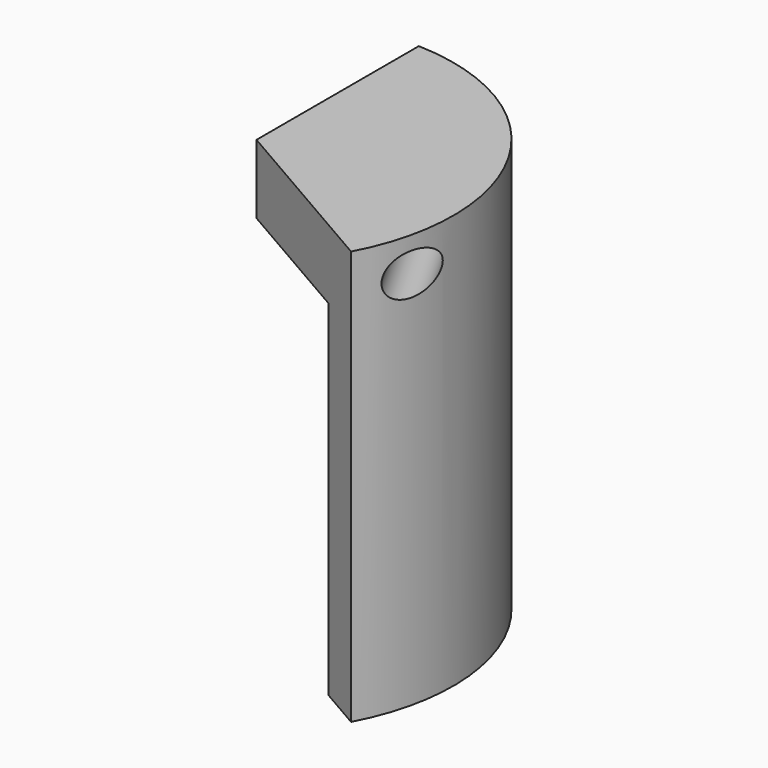
from build123d import *

# Parameters (mm, degrees)
F1_DEPTH  = 30
F3_DEPTH  = 25
F5_R      = 1.5
F6_DEPTH  = 13.5
F8_DEPTH  = 30
F11_DEPTH = 15


with BuildPart() as f1:
    # F0 (on Top) → F1 (new body)
    with BuildSketch(Plane.XY):
        with BuildLine():
            Line((0, 0), (12.9903810568, -7.5))
            ThreePointArc((12.9903810568, -7.5), (12.9903810568, 7.5), (0, 15))
            Line((0, 15), (0, 0))
        make_face()
    extrude(amount=-F1_DEPTH)

    # F2 (on face) → F3 (cut)
    with BuildSketch(Plane(origin=(0, 0, -30), x_dir=(1, 0, 0), z_dir=(0, 0, -1))):
        with BuildLine():
            Line((0, 0), (9.9592921435, 5.75))
            ThreePointArc((9.9592921435, 5.75), (-9.9592921435, 5.75), (0, -11.5))
            Line((0, -11.5), (0, 0))
        make_face()
        with BuildLine():
            ThreePointArc((0, -11.5), (8.1317279836, -8.1317279836), (11.5, 0))
            ThreePointArc((11.5, 0), (11.1081470023, 2.9764190187), (9.9592921435, 5.75))
            Line((9.9592921435, 5.75), (0, 0))
            Line((0, 0), (0, -11.5))
        make_face()
    extrude(amount=-F3_DEPTH, mode=Mode.SUBTRACT)

    # F5 (on face) → F6 (cut, symmetric)
    with BuildSketch(Plane(origin=(0, 0, 0), x_dir=(0.8660254038, 0.5, 0), z_dir=(0.5, -0.8660254038, 0))):
        with Locations((11, -2.5)):
            Circle(F5_R)
    extrude(amount=F6_DEPTH, both=True, mode=Mode.SUBTRACT)

    # F7 (on face) → F8 (cut)
    with BuildSketch(Plane.XY):
        with BuildLine():
            ThreePointArc((0, 15), (0.2500347391, 14.9979159429), (0.5, 14.9916643506))
            Line((0.5, 14.9916643506), (0.5, 16.4106432348))
            Line((0.5, 16.4106432348), (-0.9136777371, 16.4106432348))
            Line((-0.9136777371, 16.4106432348), (-0.9136777371, -10.8329579234))
            Line((-0.9136777371, -10.8329579234), (14.0083907078, -10.8329579234))
            Line((14.0083907078, -10.8329579234), (14.0083907078, -7.5103978769))
            Line((14.0083907078, -7.5103978769), (13.2331621726, -7.0628194734))
            ThreePointArc((13.2331621726, -7.0628194734), (13.1135935799, -7.2824215355), (12.9903810568, -7.5))
            Line((12.9903810568, -7.5), (0, 0))
            Line((0, 0), (0, 15))
        make_face()
        with BuildLine():
            Line((13.2331621726, -7.0628194734), (0.5, 0.2886751346))
            Line((0.5, 0.2886751346), (0.5, 14.9916643506))
            ThreePointArc((0.5, 14.9916643506), (0.2500347391, 14.9979159429), (0, 15))
            Line((0, 15), (0, 0))
            Line((0, 0), (12.9903810568, -7.5))
            ThreePointArc((12.9903810568, -7.5), (13.1135935799, -7.2824215355), (13.2331621726, -7.0628194734))
        make_face()
    extrude(amount=-F8_DEPTH, mode=Mode.SUBTRACT)

    # F10 (on offset) → F11 (cut)
    with BuildSketch(Plane(origin=(0, 0, -29), x_dir=(1, 0, 0), z_dir=(0, 0, -1))):
        with BuildLine():
            ThreePointArc((9.2050485345, 3.9073112849), (8.6602540378, -5), (1.2186934341, -9.9254615164))
            Line((1.2186934341, -9.9254615164), (1.4928994567, -12.1586903576))
            ThreePointArc((1.4928994567, -12.1586903576), (10.6088111964, -6.125), (11.2761844548, 4.786456324))
            Line((11.2761844548, 4.786456324), (9.2050485345, 3.9073112849))
        make_face()
    extrude(amount=-F11_DEPTH, mode=Mode.SUBTRACT)


solid = f1.part
